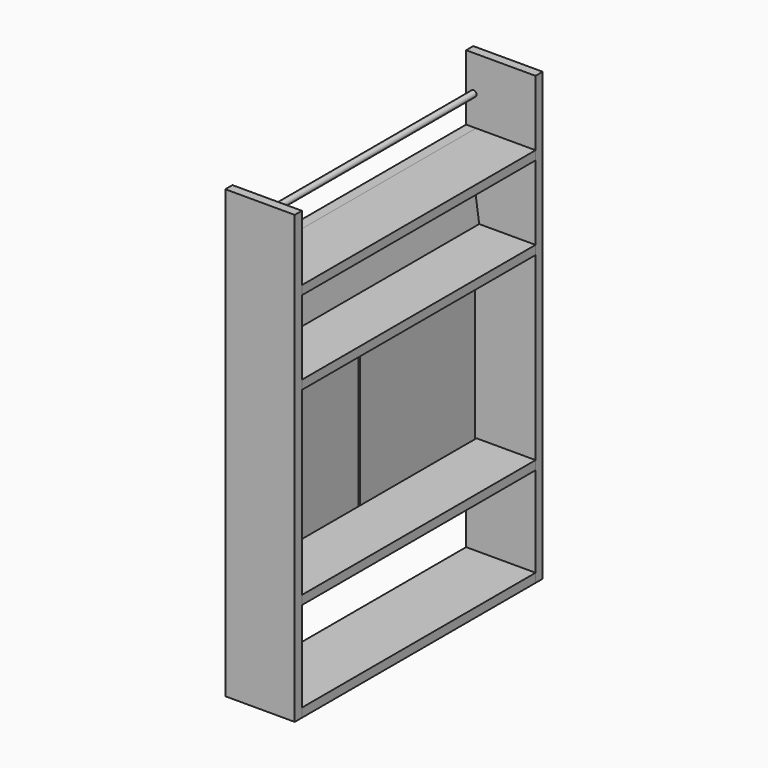
from build123d import *

# Parameters (mm, degrees)
F0_W           = 140
F0_H           = 18
F1_DEPTH       = 589
F2_W           = 140
F2_H           = 18
F3_DEPTH       = 900
F4_W           = 119
F4_H           = 18
F5_DEPTH       = 589
F7_DEPTH       = 589
F9_DEPTH       = 589
F11_DEPTH      = 589
F12_R          = 6
F13_DEPTH      = 10
F13_DEPTH_BACK = 599
F14_R          = 6
F15_DEPTH      = 609
F16_W          = 290
F16_H          = 400
F17_DEPTH      = 4
F18_W          = 290
F18_H          = 400
F19_DEPTH      = 16


with BuildPart() as f1:
    # F0 (on Front) → F1 (new body)
    with BuildSketch(Plane.XZ):
        with Locations((70, 9)):
            Rectangle(F0_W, F0_H)
    extrude(amount=F1_DEPTH)


with BuildPart() as f3:
    # F2 (on Top) → F3 (new body)
    with BuildSketch(Plane.XY):
        with Locations((70, 9)):
            Rectangle(F2_W, F2_H)
    extrude(amount=F3_DEPTH)


with BuildPart() as f3b:
    # F2 (on Top) → F3, piece 2 (new body)
    with BuildSketch(Plane.XY):
        with Locations((70, -598)):
            Rectangle(F2_W, F2_H)
    extrude(amount=F3_DEPTH)


with BuildPart() as f5:
    # F4 (on face) → F5 (new body, through all)
    with BuildSketch(Plane.XZ):
        with Locations((80.5, 209)):
            Rectangle(F4_W, F4_H)
    extrude(amount=F5_DEPTH)


with BuildPart() as f5b:
    # F4 (on face) → F5, piece 2 (new body, through all)
    with BuildSketch(Plane.XZ):
        Polygon((140, 582), (140, 600), (31, 600), (26, 600), (21, 600), (21, 582), align=None)
    extrude(amount=F5_DEPTH)


with BuildPart() as f5c:
    # F4 (on face) → F5, piece 3 (new body, through all)
    with BuildSketch(Plane.XZ):
        Polygon((140, 750), (140, 768), (0, 768), (0, 750), (26, 750), (31, 750), align=None)
    extrude(amount=F5_DEPTH)


with BuildPart() as f7_tool:
    # F6 (on face) → F7 (new body, through all)
    with BuildSketch(Plane.XZ):
        Polygon((21, 602), (21, 582), (41, 582), (41, 584), (23, 584), (23, 602), align=None)
        Polygon((20, 768), (0, 768), (0, 748), (2, 748), (2, 766), (20, 766), align=None)
    extrude(amount=F7_DEPTH)


with BuildPart() as f5b_1:
    add(f5b.part)

    # F7: cut by f7_tool
    add(f7_tool.part, mode=Mode.SUBTRACT)


with BuildPart() as f5c_1:
    add(f5c.part)

    # F7: cut by f7_tool
    add(f7_tool.part, mode=Mode.SUBTRACT)


with BuildPart() as f9:
    # F8 (on face) → F9 (new body, through all)
    with BuildSketch(Plane.XZ):
        Polygon((21, 602), (21, 582), (41, 582), (41, 584), (23, 584), (23, 602), align=None)
    extrude(amount=F9_DEPTH)


with BuildPart() as f9b:
    # F8 (on face) → F9, piece 2 (new body, through all)
    with BuildSketch(Plane.XZ):
        Polygon((20, 766), (20, 768), (0, 768), (0, 748), (2, 748), (2, 766), align=None)
    extrude(amount=F9_DEPTH)


with BuildPart() as f11:
    # F10 (on face) → F11 (new body, through all)
    with BuildSketch(Plane.XZ):
        Polygon((5.0300494684, 750), (2, 750), (23.2837837838, 600), (26.3138332522, 600), align=None)
    extrude(amount=F11_DEPTH)


with BuildPart() as f13_tool:
    # F12 (on face) → F13 (new body, two sides)
    with BuildSketch(Plane.XZ) as f13_sk:
        with Locations((15, 828)):
            Circle(F12_R)
    extrude(amount=-F13_DEPTH)
    extrude(f13_sk.sketch, amount=F13_DEPTH_BACK)


with BuildPart() as f3_1:
    add(f3.part)

    # F13: cut by f13_tool
    add(f13_tool.part, mode=Mode.SUBTRACT)


with BuildPart() as f3b_1:
    add(f3b.part)

    # F13: cut by f13_tool
    add(f13_tool.part, mode=Mode.SUBTRACT)


with BuildPart() as f15:
    # F14 (on face) → F15 (new body, through all)
    with BuildSketch(Plane.XZ.offset(-10)):
        with Locations((15, 828)):
            Circle(F14_R)
    extrude(amount=F15_DEPTH)


with BuildPart() as f17:
    # F16 (on face) → F17 (new body)
    with BuildSketch(Plane(origin=(0, 0, 0), x_dir=(0, -1, 0), z_dir=(-1, 0, 0))):
        with Locations((441, 400)):
            Rectangle(F16_W, F16_H)
    extrude(amount=-F17_DEPTH)


with BuildPart() as f17b:
    # F16 (on face) → F17, piece 2 (new body)
    with BuildSketch(Plane(origin=(0, 0, 0), x_dir=(0, -1, 0), z_dir=(-1, 0, 0))):
        with Locations((148, 400)):
            Rectangle(F16_W, F16_H)
    extrude(amount=-F17_DEPTH)


with BuildPart() as f19:
    # F18 (on face) → F19 (new body)
    with BuildSketch(Plane.YZ.offset(4)):
        with Locations((-441, 400)):
            Rectangle(F18_W, F18_H)
    extrude(amount=F19_DEPTH)


with BuildPart() as f19b:
    # F18 (on face) → F19, piece 2 (new body)
    with BuildSketch(Plane.YZ.offset(4)):
        with Locations((-148, 400)):
            Rectangle(F18_W, F18_H)
    extrude(amount=F19_DEPTH)


solid = Compound([f1.part, f5.part, f5b_1.part, f5c_1.part, f9.part, f9b.part, f11.part, f3_1.part, f3b_1.part, f15.part, f17.part, f17b.part, f19.part, f19b.part])
